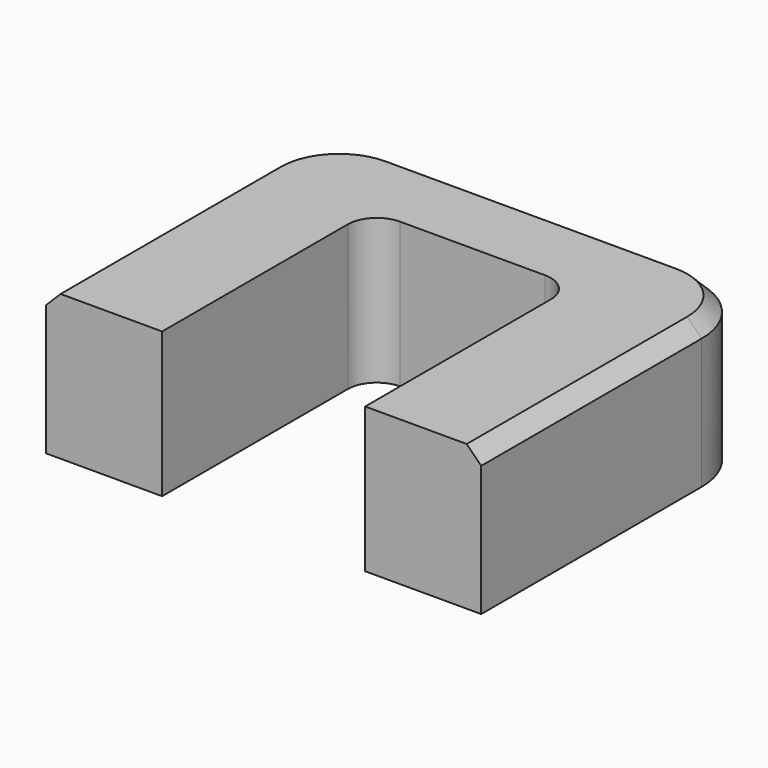
from build123d import *

# Parameters (mm, degrees)
F0_W     = 30
F0_H     = 24
F1_DEPTH = 10
F2_W     = 14
F2_H     = 18
F3_DEPTH = 10.001
F4_R     = 2
F5_R     = 5
F6_SIZE  = 1


with BuildPart() as f1:
    # F0 (on Top) → F1 (new body)
    with BuildSketch(Plane.XY):
        Rectangle(F0_W, F0_H)
    extrude(amount=F1_DEPTH)

    # F2 (on face) → F3 (cut, through all)
    with BuildSketch(Plane.XY.offset(10)):
        with Locations((0, -3)):
            Rectangle(F2_W, F2_H)
    extrude(amount=-F3_DEPTH, mode=Mode.SUBTRACT)

    # F4
    f4_edges = [f1.edges().sort_by_distance(p)[0] for p in [
        (-7, 6, 5),
        (7, 6, 5),
    ]]
    fillet(f4_edges, radius=F4_R)

    # F5
    f5_edges = [f1.edges().sort_by_distance(p)[0] for p in [
        (-15, 12, 5),
        (15, 12, 5),
    ]]
    fillet(f5_edges, radius=F5_R)

    # F6
    f6_edges = [f1.edges().sort_by_distance(p)[0] for p in [
        (0, 12, 10),
    ]]
    chamfer(f6_edges, length=F6_SIZE)


solid = f1.part
